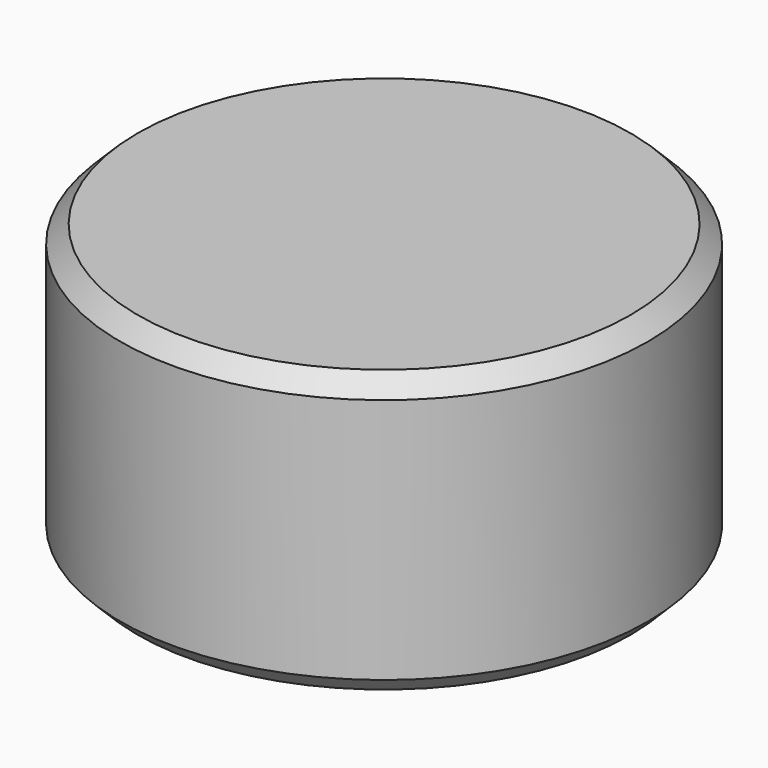
from build123d import *

# Parameters (mm, degrees)
CYLINDER019_R     = 30
CYLINDER019_DEPTH = 32
CHAMFER004_SIZE   = 2
CHAMFER005_SIZE   = 2


with BuildPart() as part:
    # Cylinder019 → Cylinder019 (join)
    with BuildSketch(Plane.XY.offset(-16)):
        Circle(CYLINDER019_R)
    extrude(amount=CYLINDER019_DEPTH)

    # Chamfer004
    chamfer004_edges = [part.edges().sort_by_distance(p)[0] for p in [
        (-30, 0, 16),
    ]]
    chamfer(chamfer004_edges, length=CHAMFER004_SIZE)

    # Chamfer005
    chamfer005_edges = [part.edges().sort_by_distance(p)[0] for p in [
        (-30, 0, -16),
    ]]
    chamfer(chamfer005_edges, length=CHAMFER005_SIZE)


solid = part.part
